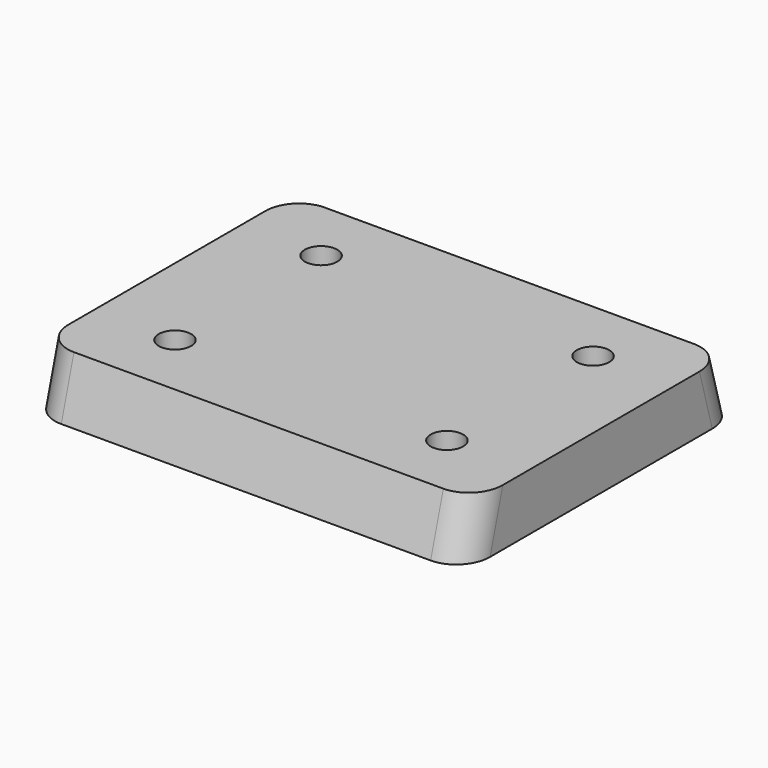
from build123d import *

# Parameters (mm, degrees)
F2_DEPTH       = 26.75
F3_R           = 4
F5_D           = 4
F5_DEPTH       = 14.1
F5_CBORE_D     = 11
F5_CBORE_DEPTH = 3
F5_TIP         = 1.2017212381


with BuildPart() as f2:
    # F1 (on Right) → F2 (new body, symmetric)
    with BuildSketch(Plane.YZ):
        Polygon((-19.3, 7), (-21.25, 0), (21.25, 0), (19.3, 7), align=None)
    extrude(amount=F2_DEPTH, both=True)

    # F3
    f3_edges = [f2.edges().sort_by_distance(p)[0] for p in [
        (-26.75, -20.275, 3.5),
        (26.75, -20.275, 3.5),
        (26.75, 20.275, 3.5),
        (-26.75, 20.275, 3.5),
    ]]
    fillet(f3_edges, radius=F3_R)

    # F5
    with Locations(Plane(origin=(0, 0, 0), x_dir=(1, 0, 0), z_dir=(0, 0, -1))):
        with Locations((-16.75, 11.25), (16.75, 11.25), (16.75, -11.25), (-16.75, -11.25)):
            CounterBoreHole(F5_D / 2, F5_CBORE_D / 2, F5_CBORE_DEPTH, depth=F5_DEPTH)
            with Locations((0, 0, -(F5_DEPTH + F5_TIP / 2))):  # 118° drill point
                Cone(0, F5_D / 2, F5_TIP, mode=Mode.SUBTRACT)


solid = f2.part
